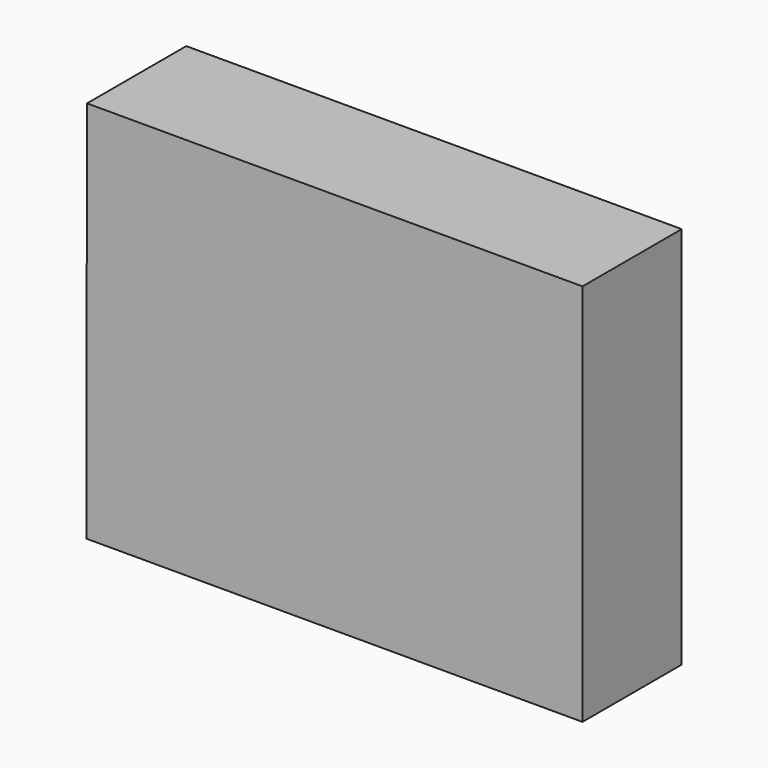
from build123d import *

# Parameters (mm, degrees)
F0_R     = 68.702586
F0_R_2   = 21.096854
F1_DEPTH = 25.4
F2_T     = -2.54
F4_DEPTH = 50.8


with BuildPart() as f1:
    # F0 (on Front) → F1 (new body)
    with BuildSketch(Plane.XZ):
        with BuildLine():
            ThreePointArc((-23.880008, 8.70958), (-22.055409, 12.63608), (-19.590884, 16.195952))
            Line((-19.590884, 16.195952), (-41.709106, 35.680373))
            ThreePointArc((-41.709106, 35.680373), (-44.343235, 32.348354), (-46.711827, 28.822625))
            Line((-46.711827, 28.822625), (-23.880008, 8.70958))
        make_face()
        with BuildLine():
            Line((-48.504215, -25.692015), (-22.386012, -12.040683))
            ThreePointArc((-22.386012, -12.040683), (-23.932365, -8.564666), (-24.942596, -4.896786))
            Line((-24.942596, -4.896786), (-51.564276, -18.811273))
            ThreePointArc((-51.564276, -18.811273), (-50.152387, -22.304184), (-48.504215, -25.692015))
        make_face()
        Circle(F0_R)
        with BuildLine():
            ThreePointArc((38.51008, 39.111536), (41.503011, 35.919891), (44.232214, 32.499996))
            ThreePointArc((44.232214, 32.499996), (52.156375, 17.101202), (54.888419, 0))
            ThreePointArc((54.888419, 0), (54.022744, -9.709872), (51.453027, -19.113464))
            ThreePointArc((51.453027, -19.113464), (49.930493, -22.796588), (48.144719, -26.359524))
            ThreePointArc((48.144719, -26.359524), (30.529877, -45.614309), (6.013757, -54.557981))
            ThreePointArc((6.013757, -54.557981), (0.931629, -54.880512), (-4.158517, -54.730661))
            ThreePointArc((-4.158517, -54.730661), (-30.069113, -45.919353), (-48.504215, -25.692015))
            ThreePointArc((-48.504215, -25.692015), (-50.152387, -22.304184), (-51.564276, -18.811273))
            ThreePointArc((-51.564276, -18.811273), (-54.605816, 5.562676), (-46.711827, 28.822625))
            ThreePointArc((-46.711827, 28.822625), (-44.343235, 32.348354), (-41.709106, 35.680373))
            ThreePointArc((-41.709106, 35.680373), (-25.105411, 48.810417), (-4.767821, 54.680951))
            ThreePointArc((-4.767821, 54.680951), (0.31004, 54.887543), (5.385244, 54.6236))
            ThreePointArc((5.385244, 54.6236), (23.277799, 49.707973), (38.51008, 39.111536))
        make_face(mode=Mode.SUBTRACT)
        with BuildLine():
            Line((6.013757, -54.557981), (6.013757, -24.697091))
            ThreePointArc((6.013757, -24.697091), (0.946794, -25.401086), (-4.158517, -25.07625))
            Line((-4.158517, -25.07625), (-4.158517, -54.730661))
            ThreePointArc((-4.158517, -54.730661), (0.931629, -54.880512), (6.013757, -54.557981))
        make_face()
        with BuildLine():
            Line((51.453027, -19.113464), (24.530789, -6.659727))
            ThreePointArc((24.530789, -6.659727), (23.184223, -10.421295), (21.264875, -13.925397))
            Line((21.264875, -13.925397), (48.144719, -26.359524))
            ThreePointArc((48.144719, -26.359524), (49.930493, -22.796588), (51.453027, -19.113464))
        make_face()
        with BuildLine():
            ThreePointArc((17.583705, 18.355514), (20.501997, 15.025967), (22.798282, 11.240549))
            Line((22.798282, 11.240549), (44.232214, 32.499996))
            ThreePointArc((44.232214, 32.499996), (41.503011, 35.919891), (38.51008, 39.111536))
            Line((38.51008, 39.111536), (17.583705, 18.355514))
        make_face()
        with BuildLine():
            ThreePointArc((-4.767821, 24.967568), (0.31506, 25.416772), (5.385244, 24.841714))
            Line((5.385244, 24.841714), (5.385244, 54.6236))
            ThreePointArc((5.385244, 54.6236), (0.31004, 54.887543), (-4.767821, 54.680951))
            Line((-4.767821, 54.680951), (-4.767821, 24.967568))
        make_face()
        with BuildLine():
            ThreePointArc((24.530789, -6.659727), (25.195763, -3.35933), (25.418725, 0))
            ThreePointArc((25.418725, 0), (24.754947, 5.770976), (22.798282, 11.240549))
            ThreePointArc((22.798282, 11.240549), (20.501997, 15.025967), (17.583705, 18.355514))
            ThreePointArc((17.583705, 18.355514), (11.933602, 22.443278), (5.385244, 24.841714))
            ThreePointArc((5.385244, 24.841714), (0.31506, 25.416772), (-4.767821, 24.967568))
            ThreePointArc((-4.767821, 24.967568), (-12.944958, 21.875549), (-19.590884, 16.195952))
            ThreePointArc((-19.590884, 16.195952), (-22.055409, 12.63608), (-23.880008, 8.70958))
            ThreePointArc((-23.880008, 8.70958), (-25.341566, 1.979046), (-24.942596, -4.896786))
            ThreePointArc((-24.942596, -4.896786), (-23.932365, -8.564666), (-22.386012, -12.040683))
            ThreePointArc((-22.386012, -12.040683), (-14.786294, -20.675519), (-4.158517, -25.07625))
            ThreePointArc((-4.158517, -25.07625), (0.946794, -25.401086), (6.013757, -24.697091))
            ThreePointArc((6.013757, -24.697091), (14.664183, -20.762305), (21.264875, -13.925397))
            ThreePointArc((21.264875, -13.925397), (23.184223, -10.421295), (24.530789, -6.659727))
        make_face()
        Circle(F0_R_2, mode=Mode.SUBTRACT)
    extrude(amount=F1_DEPTH)

    # F2
    f2_openings = [f1.faces().sort_by_distance(p)[0] for p in [
        (-68.702586, -12.7, 0),
    ]]
    offset(amount=F2_T, openings=f2_openings)

    # F3 (on Front) → F4 (join)
    with BuildSketch(Plane.XZ):
        Polygon((97.442344, 77.626087), (-105.488047, 77.626087), (-105.786033, -79.414025), (97.442344, -79.414025), align=None)
    extrude(amount=F4_DEPTH)


solid = f1.part
